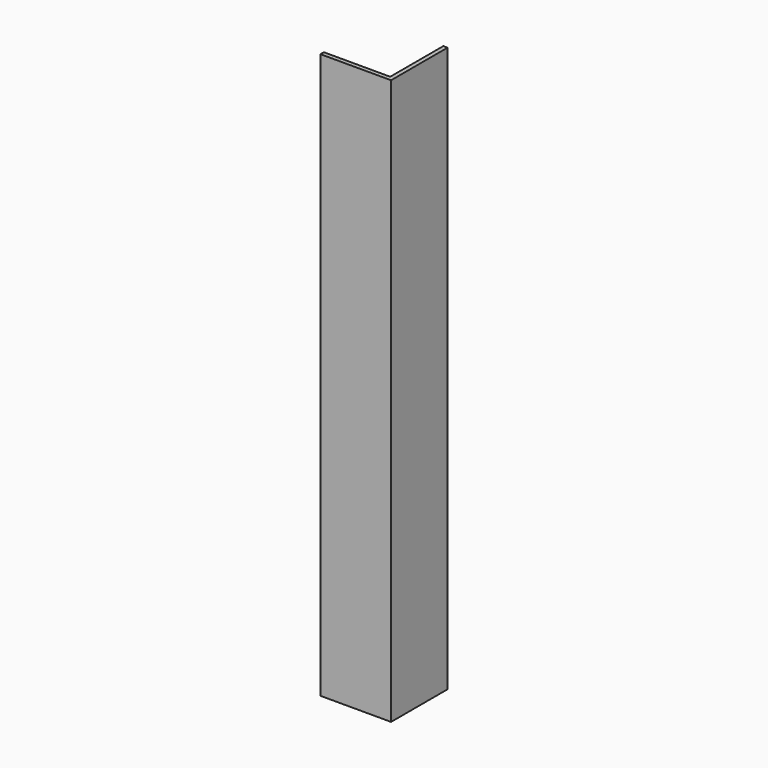
from build123d import *

# Parameters (mm, degrees)
F0_W     = 1.5
F0_H     = 1.5
F0_H_2   = 23.5
F0_W_2   = 23.5
F1_DEPTH = 200


with BuildPart() as f1:
    # F0 (on Top) → F1 (new body)
    with BuildSketch(Plane.XY):
        with Locations((11.75, 0)):
            Rectangle(F0_W, F0_H)
        with Locations((11.75, 12.5)):
            Rectangle(F0_W, F0_H_2)
        with Locations((-0.75, 0)):
            Rectangle(F0_W_2, F0_H)
    extrude(amount=-F1_DEPTH)


solid = f1.part
